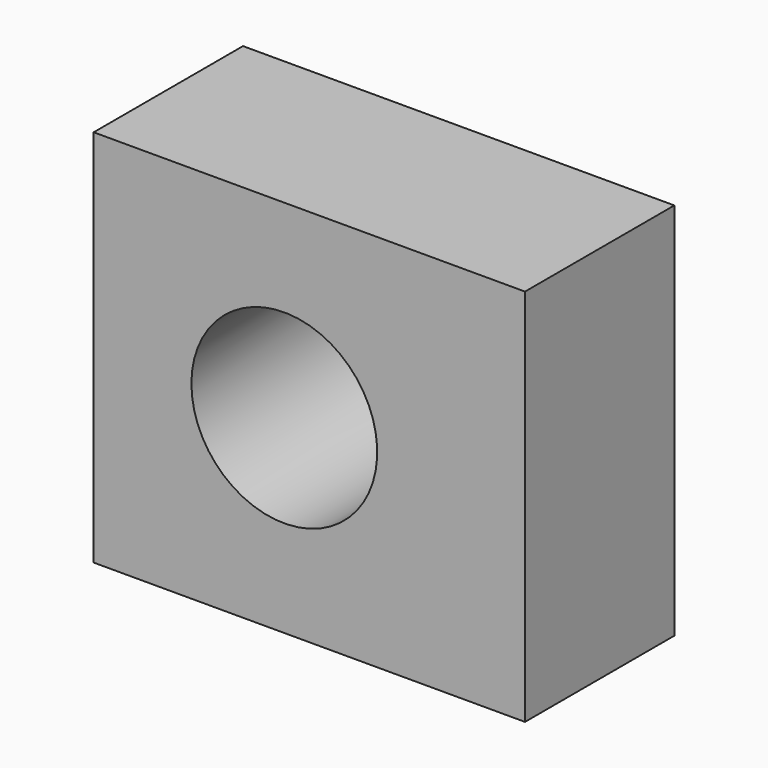
from build123d import *

# Parameters (mm, degrees)
F0_W     = 54.955252
F0_H     = 111.551951
F1_DEPTH = 127
F2_R     = 27.355567
F3_DEPTH = 55.46344


with BuildPart() as f1:
    # F0 (on Right) → F1 (new body)
    with BuildSketch(Plane.YZ):
        with Locations((-27.477626, 47.014909)):
            Rectangle(F0_W, F0_H)
    extrude(amount=F1_DEPTH)

    # F2 (on face) → F3 (cut)
    with BuildSketch(Plane(origin=(0, 0, 0), x_dir=(-1, 0, 0), z_dir=(0, 1, 0))):
        with Locations((-56.12443, 47.014909)):
            Circle(F2_R)
    extrude(amount=-F3_DEPTH, mode=Mode.SUBTRACT)


solid = f1.part
